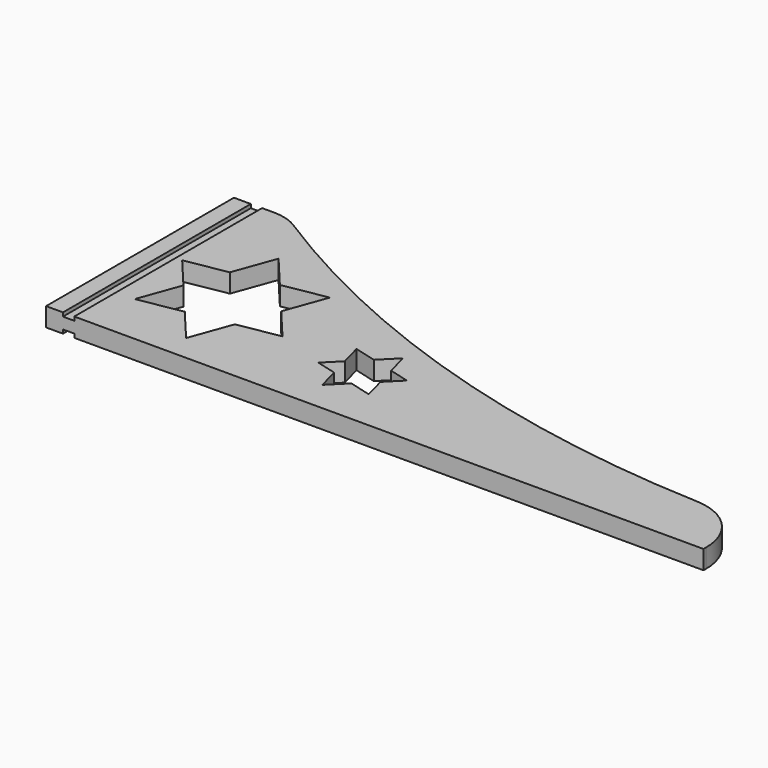
from build123d import *

# Parameters (mm, degrees)
F1_DEPTH = 2
F2_W     = 1.2
F2_H     = 25
F3_DEPTH = 0.4
F4_W     = 1.2
F4_H     = 25
F5_DEPTH = 0.4


with BuildPart() as f1:
    # F0 (on Top) → F1 (new body)
    with BuildSketch(Plane.XY):
        with BuildLine():
            Line((0, 25), (0, 0))
            Line((0, 0), (70, 0))
            Line((70, 0), (70, 0.351166))
            ThreePointArc((70, 0.351166), (68.327306, 4.507417), (64.24186, 6.34629))
            ThreePointArc((64.24186, 6.34629), (34.416213, 11.508745), (6.947288, 24.224025))
            ThreePointArc((6.947288, 24.224025), (5.664732, 24.802089), (4.271916, 25))
            Line((4.271916, 25), (0, 25))
        make_face()
        Polygon((12.798805, 15.11953), (17.467075, 15.942672), (15.845802, 11.488261), (18.750836, 8.026177), (14.300066, 7.241386), (12.678793, 2.786975), (9.631796, 6.418244), (4.963527, 5.595102), (6.5848, 10.049513), (3.679766, 13.511597), (8.130536, 14.296388), (9.751809, 18.750799), align=None, mode=Mode.SUBTRACT)
        Polygon((27.314466, 9.476318), (29.033361, 11.195212), (29.66252, 8.847159), (31.797244, 8.275161), (30.234517, 6.712435), (30.863677, 4.364381), (28.515623, 4.99354), (26.796728, 3.274646), (26.167569, 5.622699), (24.032845, 6.194697), (25.595572, 7.757423), (24.966413, 10.105477), align=None, mode=Mode.SUBTRACT)
    extrude(amount=F1_DEPTH)

    # F2 (on face) → F3 (cut)
    with BuildSketch(Plane.XY.offset(2)):
        with Locations((2.4, 12.5)):
            Rectangle(F2_W, F2_H)
    extrude(amount=-F3_DEPTH, mode=Mode.SUBTRACT)

    # F4 (on face) → F5 (cut)
    with BuildSketch(Plane(origin=(0, 0, 0), x_dir=(1, 0, 0), z_dir=(0, 0, -1))):
        with Locations((2.4, -12.5)):
            Rectangle(F4_W, F4_H)
    extrude(amount=-F5_DEPTH, mode=Mode.SUBTRACT)


solid = f1.part
